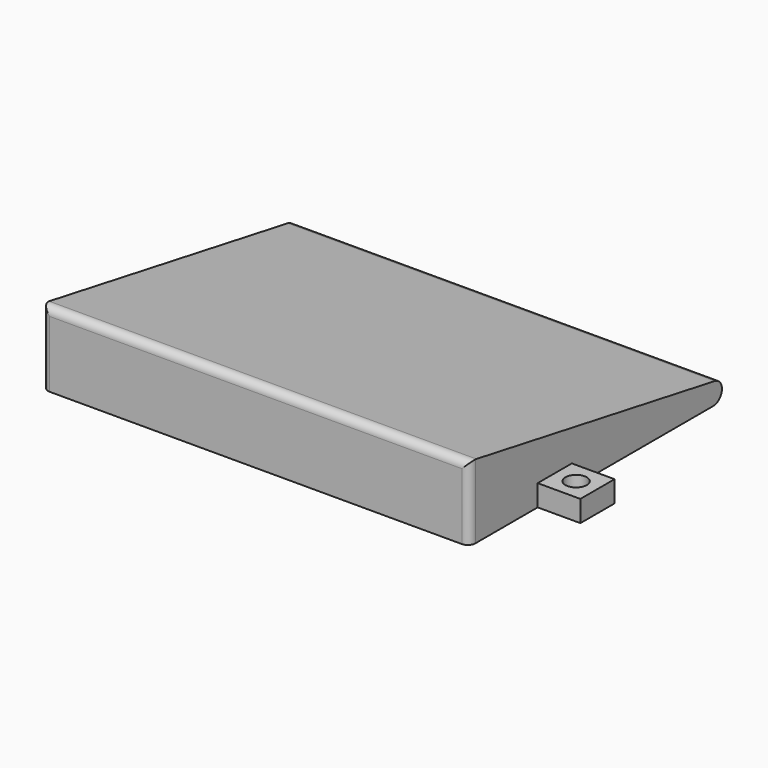
from build123d import *

# Parameters (mm, degrees)
F1_DEPTH = 127
F2_W     = 12.7
F2_H     = 6.35
F3_DEPTH = 12.7
F4_W     = 12.7
F4_H     = 6.35
F5_DEPTH = 12.7
F6_R     = 3.175
F7_DEPTH = 6.351
F8_R     = 3.175
F9_DEPTH = 6.351
F10_R    = 3.175
F11_R    = 2.2225


with BuildPart() as f1:
    # F0 (on Right) → F1 (new body)
    with BuildSketch(Plane.YZ):
        Polygon((-127, 0), (0, 0), (-127, 22.393527), align=None)
    extrude(amount=F1_DEPTH)

    # F2 (on face) → F3 (join)
    with BuildSketch(Plane.YZ.offset(127)):
        with Locations((-95.25, 3.175)):
            Rectangle(F2_W, F2_H)
    extrude(amount=F3_DEPTH)

    # F4 (on face) → F5 (join)
    with BuildSketch(Plane(origin=(0, 0, 0), x_dir=(0, -1, 0), z_dir=(-1, 0, 0))):
        with Locations((95.25, 3.175)):
            Rectangle(F4_W, F4_H)
    extrude(amount=F5_DEPTH)

    # F6 (on face) → F7 (cut, through all)
    with BuildSketch(Plane.XY.offset(6.35)):
        with Locations((-6.35, -95.25)):
            Circle(F6_R)
    extrude(amount=-F7_DEPTH, mode=Mode.SUBTRACT)

    # F8 (on face) → F9 (cut, through all)
    with BuildSketch(Plane.XY.offset(6.35)):
        with Locations((133.35, -95.25)):
            Circle(F8_R)
    extrude(amount=-F9_DEPTH, mode=Mode.SUBTRACT)

    # F10
    f10_edges = [f1.edges().sort_by_distance(p)[0] for p in [
        (63.5, 0, 0),
    ]]
    fillet(f10_edges, radius=F10_R)

    # F11
    f11_edges = [f1.edges().sort_by_distance(p)[0] for p in [
        (63.5, -127, 22.393527),
        (127, -127, 11.196763),
        (0, -127, 11.196763),
    ]]
    fillet(f11_edges, radius=F11_R)


solid = f1.part
